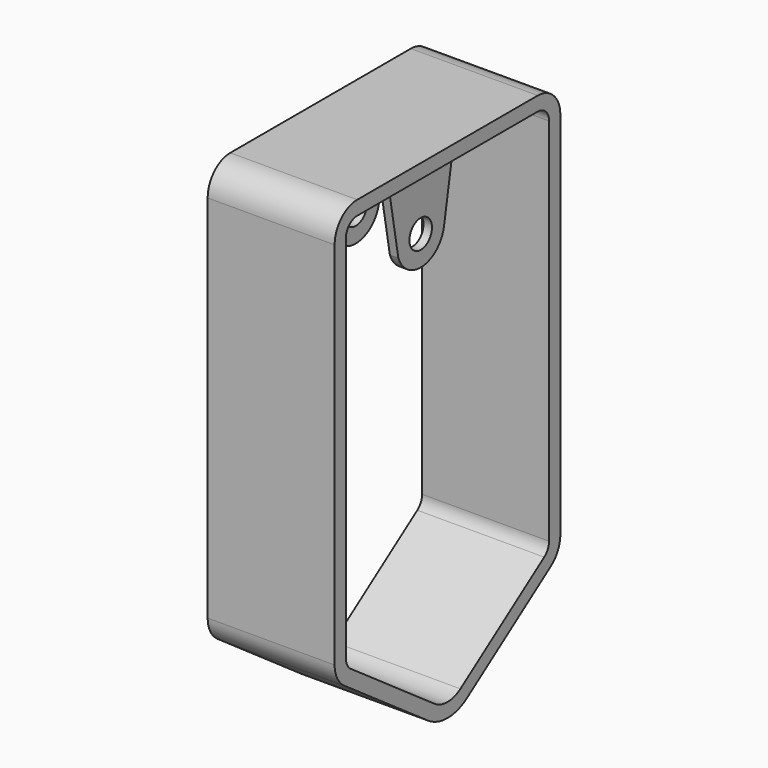
from build123d import *

# Parameters (mm, degrees)
F0_R     = 5
F1_DEPTH = 45
F3_DEPTH = 25


with BuildPart() as f1:
    # F0 (on Right) → F1 (new body)
    with BuildSketch(Plane.YZ):
        with BuildLine():
            Line((-45.49474, 14.670671), (-8.362622, -11.329518))
            ThreePointArc((-8.362622, -11.329518), (0.241024, -14.042237), (8.844671, -11.329518))
            Line((8.844671, -11.329518), (45.976789, 14.670671))
            ThreePointArc((45.976789, 14.670671), (49.111133, 18.244705), (50.241024, 22.862191))
            Line((50.241024, 22.862191), (50.241024, 153.957763))
            ThreePointArc((50.241024, 153.957763), (47.312092, 161.02883), (40.241024, 163.957763))
            Line((40.241024, 163.957763), (-39.758976, 163.957763))
            ThreePointArc((-39.758976, 163.957763), (-46.830043, 161.02883), (-49.758976, 153.957763))
            Line((-49.758976, 153.957763), (-49.758976, 22.862191))
            ThreePointArc((-49.758976, 22.862191), (-48.629084, 18.244705), (-45.49474, 14.670671))
        make_face()
        with BuildLine():
            ThreePointArc((5.976789, -7.233758), (0.241024, -9.042237), (-5.49474, -7.233758))
            Line((-5.49474, -7.233758), (-42.626858, 18.766431))
            ThreePointArc((-42.626858, 18.766431), (-44.19403, 20.553448), (-44.758976, 22.862191))
            Line((-44.758976, 22.862191), (-44.758976, 153.957763))
            ThreePointArc((-44.758976, 153.957763), (-43.294509, 157.493297), (-39.758976, 158.957763))
            Line((-39.758976, 158.957763), (-14.758976, 158.957763))
            Line((-14.758976, 158.957763), (15.241024, 158.957763))
            Line((15.241024, 158.957763), (40.241024, 158.957763))
            ThreePointArc((40.241024, 158.957763), (43.776558, 157.493297), (45.241024, 153.957763))
            Line((45.241024, 153.957763), (45.241024, 22.862191))
            ThreePointArc((45.241024, 22.862191), (44.676079, 20.553448), (43.108907, 18.766431))
            Line((43.108907, 18.766431), (5.976789, -7.233758))
        make_face(mode=Mode.SUBTRACT)
        with BuildLine():
            Line((15.241024, 158.957763), (-14.758976, 158.957763))
            Line((-14.758976, 158.957763), (-9.655823, 130.450284))
            ThreePointArc((-9.655823, 130.450284), (1.125118, 123.495049), (10.586102, 132.160716))
            Line((10.586102, 132.160716), (15.241024, 158.957763))
        make_face()
        with Locations((0.241024, 133.957763)):
            Circle(F0_R, mode=Mode.SUBTRACT)
    extrude(amount=F1_DEPTH)

    # F2 (on Front) → F3 (cut, symmetric)
    with BuildSketch(Plane.XZ):
        Polygon((55.277422, 116.967438), (55.277422, 158.957763), (35.5, 158.957763), (35.5, 121.957763), (32.5, 121.957763), (32.5, 158.957763), (12.5, 158.957763), (12.5, 121.957763), (9.5, 121.957763), (9.5, 158.957763), (-7.29355, 158.957763), (-7.29355, 116.967438), align=None)
    extrude(amount=F3_DEPTH, both=True, mode=Mode.SUBTRACT)


solid = f1.part
